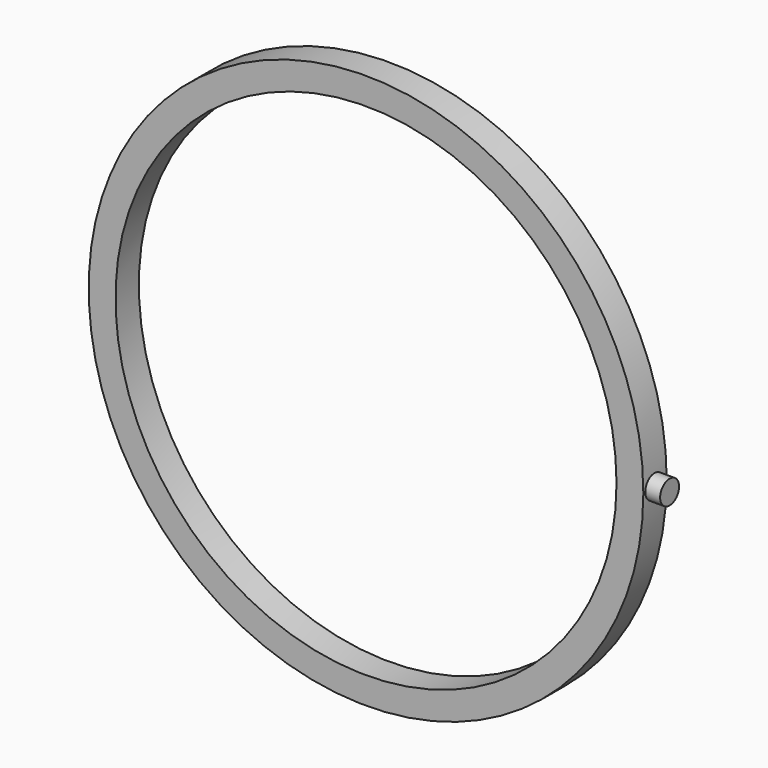
from build123d import *

# Parameters (mm, degrees)
F0_R     = 95
F1_DEPTH = 10
F2_R     = 85.813786
F3_DEPTH = 25
F5_R     = 4.046954
F6_DEPTH = 10


with BuildPart() as f1:
    # F0 (on Front) → F1 (new body)
    with BuildSketch(Plane.XZ):
        Circle(F0_R)
    extrude(amount=F1_DEPTH)

    # F2 (on face) → F3 (cut)
    with BuildSketch(Plane.XZ.offset(10)):
        Circle(F2_R)
    extrude(amount=-F3_DEPTH, mode=Mode.SUBTRACT)

    # F5 (on offset) → F6 (join)
    with BuildSketch(Plane.YZ.offset(90.1)):
        with Locations((-5.129917, 0)):
            Circle(F5_R)
    extrude(amount=F6_DEPTH)


solid = f1.part
